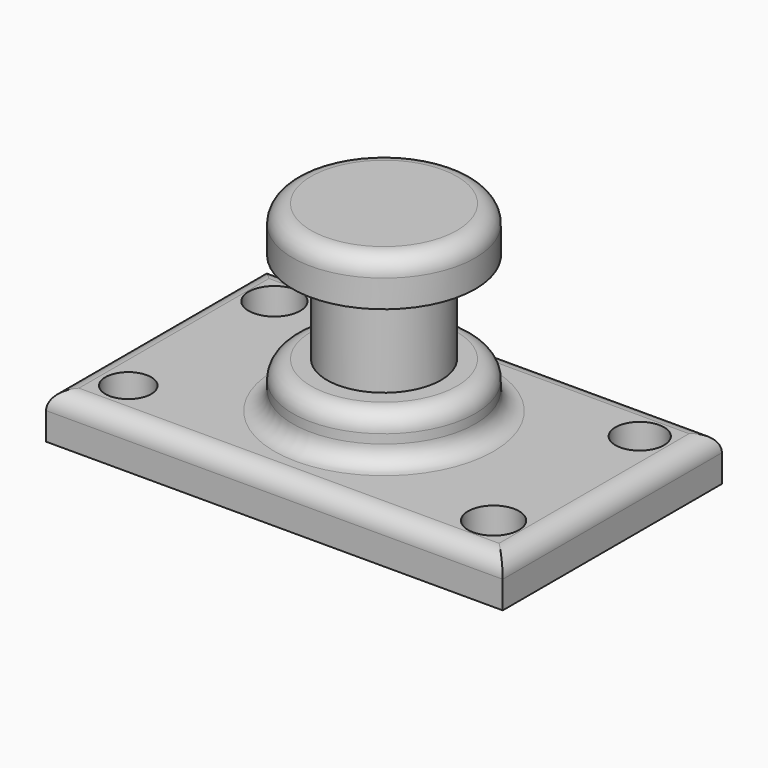
from build123d import *

# Parameters (mm, degrees)
F0_W     = 127
F0_H     = 76.2
F1_DEPTH = 12.7
F2_R     = 7.198910885
F2_R_2   = 6.7607209877
F2_R_3   = 7.0919024912
F2_R_4   = 6.3659189417
F3_DEPTH = 12.701
F4_W     = 25.4
F4_H     = 50.8
F6_W     = 20.640426774
F6_H     = 25.4
F8_R     = 5.08


with BuildPart() as f1:
    # F0 (on Top) → F1 (new body)
    with BuildSketch(Plane.XY):
        Rectangle(F0_W, F0_H)
    extrude(amount=F1_DEPTH)

    # F2 (on face) → F3 (cut, through all)
    with BuildSketch(Plane.XY.offset(12.7)):
        with Locations((-50.8, 25.4)):
            Circle(F2_R)
        with Locations((50.8, 25.4)):
            Circle(F2_R_2)
        with Locations((50.8, -25.4)):
            Circle(F2_R_3)
        with Locations((-50.8, -25.4)):
            Circle(F2_R_4)
    extrude(amount=-F3_DEPTH, mode=Mode.SUBTRACT)

    # F4 (on Front) → F5 (revolve)
    with BuildSketch(Plane.XZ):
        with Locations((12.7, 38.1)):
            Rectangle(F4_W, F4_H)
    revolve(axis=Axis((0, 0, 38.1), (0, 0, 1)))

    # F6 (on Front) → F7 (revolve, cut)
    with BuildSketch(Plane.XZ):
        with Locations((26.1877048761, 38.1)):
            Rectangle(F6_W, F6_H)
    revolve(axis=Axis((0, 0, 12.7), (0, 0, 1)), mode=Mode.SUBTRACT)

    # F8
    f8_edges = [f1.edges().sort_by_distance(p)[0] for p in [
        (-25.4, 0, 63.5),
        (-25.4, 0, 12.7),
        (-25.4, 0, 25.4),
        (0, -38.1, 12.7),
        (63.5, 0, 12.7),
        (0, 38.1, 12.7),
        (-63.5, 0, 12.7),
    ]]
    fillet(f8_edges, radius=F8_R)


solid = f1.part
